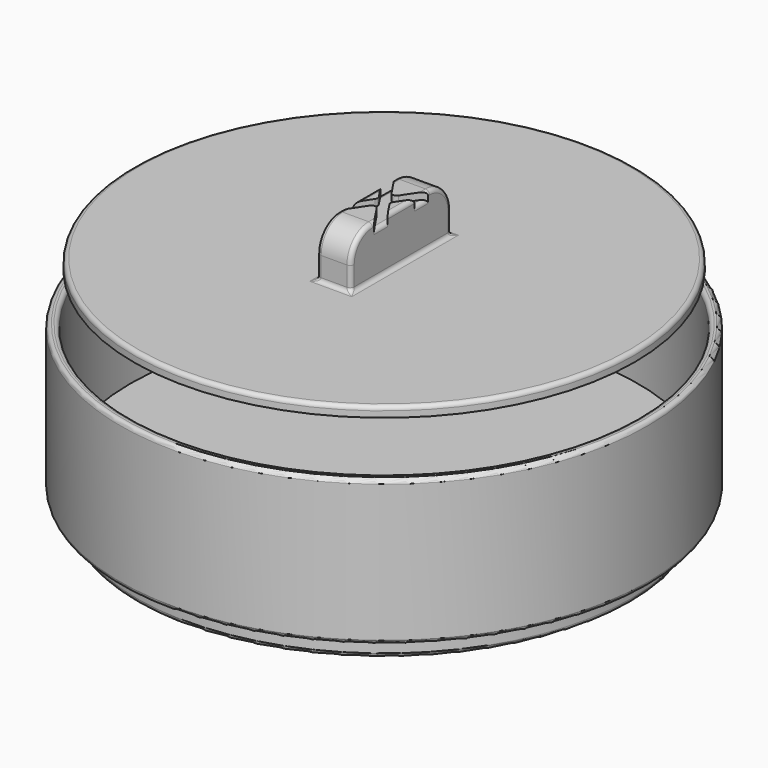
from build123d import *

# Parameters (mm, degrees)
SKETCH_R        = 78
PAD_DEPTH       = 43
SKETCH001_R     = 75
POCKET_DEPTH    = 40
SKETCH002_R     = 73
PAD001_DEPTH    = 6
FILLET003_R     = 1.2
FILLET004_R     = 1.2
SKETCH003_R     = 74
PAD002_DEPTH    = 3
SKETCH004_W     = 10
SKETCH004_H     = 37
PAD003_DEPTH    = 15
POCKET001_DEPTH = 2
FILLET_R        = 1.2
FILLET005_R     = 8
FILLET006_R     = 1.2


with BuildPart() as level:
    # Sketch → Pad (new body)
    with BuildSketch(Plane.XY):
        Circle(SKETCH_R)
    extrude(amount=PAD_DEPTH)

    # Sketch001 (on Face3 of Pad) → Pocket (cut)
    with BuildSketch(Plane.XY.offset(43)):
        Circle(SKETCH001_R)
    extrude(amount=-POCKET_DEPTH, mode=Mode.SUBTRACT)

    # Sketch002 (on Face2 of Pocket) → Pad001 (join)
    with BuildSketch(Plane(origin=(0, 0, 0), x_dir=(1, 0, 0), z_dir=(0, 0, -1))):
        Circle(SKETCH002_R)
    extrude(amount=PAD001_DEPTH)

    # Fillet003
    fillet003_edges = [level.edges().sort_by_distance(p)[0] for p in [
        (-78, 0, 43),
        (-75, 0, 43),
    ]]
    fillet(fillet003_edges, radius=FILLET003_R)

    # Fillet004
    fillet004_edges = [level.edges().sort_by_distance(p)[0] for p in [
        (-78, 0, 0),
        (73, 0, -3),
        (-73, 0, 0),
        (-73, 0, -6),
    ]]
    fillet(fillet004_edges, radius=FILLET004_R)


with BuildPart() as lid:
    # Sketch003 → Pad002 (new body)
    with BuildSketch(Plane.XY):
        Circle(SKETCH003_R)
    extrude(amount=PAD002_DEPTH)

    # Sketch004 (on Face3 of Pad002) → Pad003 (join)
    with BuildSketch(Plane.XY.offset(3)):
        Rectangle(SKETCH004_W, SKETCH004_H)
    extrude(amount=PAD003_DEPTH)

    # Sketch005 (on Face8 of Pad003) → Pocket001 (cut)
    with BuildSketch(Plane.XY.offset(18)):
        Polygon((-5, 10), (0, 2.5), (5, 10), (5, 5), (1.666667, 0), (5, -5), (5, -10), (0, -2.5), (-5, -10), (-5, -5), (-1.666667, 0), (-5, 5), align=None)
    extrude(amount=-POCKET001_DEPTH, mode=Mode.SUBTRACT)

    # Fillet
    fillet_edges = [lid.edges().sort_by_distance(p)[0] for p in [
        (-74, 0, 3),
        (-5, 0, 3),
        (0, -18.5, 3),
        (5, 0, 3),
        (0, 18.5, 3),
    ]]
    fillet(fillet_edges, radius=FILLET_R)

    # Fillet005
    fillet005_edges = [lid.edges().sort_by_distance(p)[0] for p in [
        (0, 18.5, 18),
        (0, -18.5, 18),
    ]]
    fillet(fillet005_edges, radius=FILLET005_R)

    # Fillet006
    fillet006_edges = [lid.edges().sort_by_distance(p)[0] for p in [
        (-5, 0, 18),
        (5, 0, 18),
        (5, 16.156854, 15.656854),
        (-5, 16.156854, 15.656854),
        (-5, -16.156854, 15.656854),
        (5, -16.156854, 15.656854),
        (5, 7.5, 16),
        (5, -7.5, 16),
        (-5, -7.5, 16),
        (-5, 7.5, 16),
        (0, -2.5, 17),
        (-1.666667, 0, 17),
        (0, 2.5, 17),
        (1.666667, 0, 17),
    ]]
    fillet(fillet006_edges, radius=FILLET006_R)


with BuildPart() as lid_1:
    # Body001 placement: moved
    add(lid.part.moved(Location((0, 0, 57))))


solid = Compound([level.part, lid_1.part])
